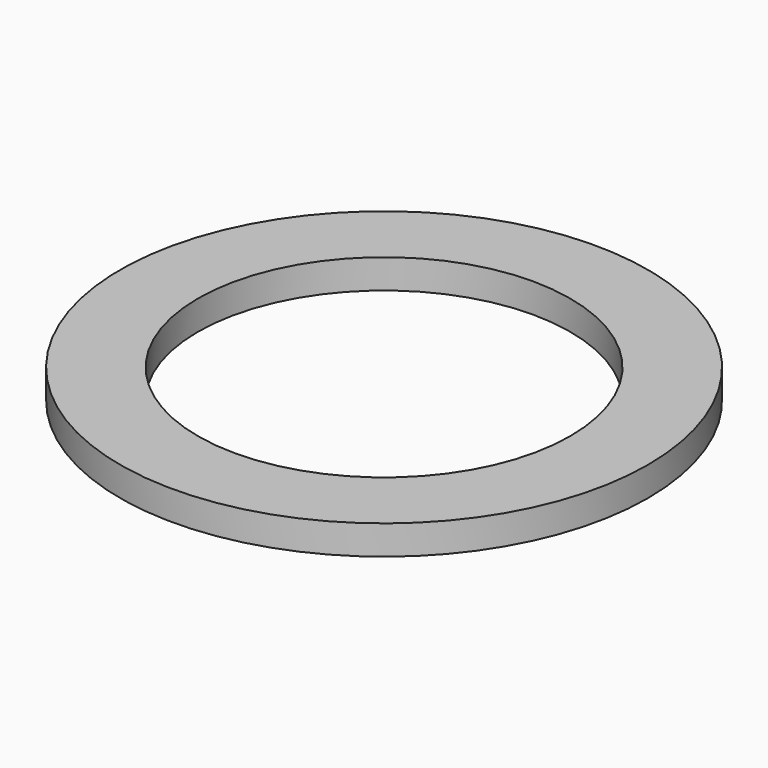
from build123d import *

# Parameters (mm, degrees)
CYLINDER001_R     = 6.35
CYLINDER001_DEPTH = 1
CYLINDER_R        = 9
CYLINDER_DEPTH    = 1


with BuildPart() as cylinder001:
    # Cylinder001 → Cylinder001 (new body)
    with BuildSketch(Plane.XY):
        Circle(CYLINDER001_R)
    extrude(amount=CYLINDER001_DEPTH)


with BuildPart() as cut:
    # Cylinder → Cylinder (new body)
    with BuildSketch(Plane.XY):
        Circle(CYLINDER_R)
    extrude(amount=CYLINDER_DEPTH)

    # Cut: cut Cylinder001
    add(cylinder001.part, mode=Mode.SUBTRACT)


solid = cut.part
